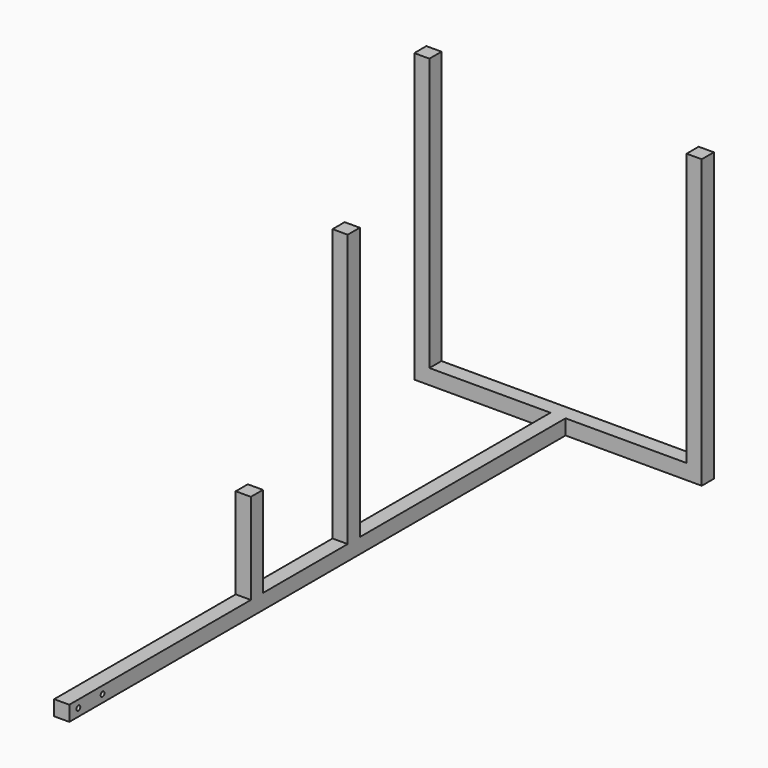
from build123d import *

# Parameters (mm, degrees)
F0_W     = 457.2
F0_H     = 50.8
F1_DEPTH = 50.8
F2_W     = 50.8
F2_H     = 50.8
F3_DEPTH = 914.4
F4_W     = 50.8
F4_H     = 50.8
F5_DEPTH = 914.4
F6_W     = 50.8
F6_H     = 50.8
F7_DEPTH = 304.8
F8_R     = 7.9375
F9_DEPTH = 50.8


with BuildPart() as f1:
    # F0 (on Top) → F1 (new body)
    with BuildSketch(Plane.XY):
        Polygon((0, 2082.8), (0, 2133.6), (-50.8, 2133.6), (-50.8, 2082.8), (-50.8, 0), (0, 0), align=None)
        with Locations((228.6, 2108.2)):
            Rectangle(F0_W, F0_H)
        with Locations((-279.4, 2108.2)):
            Rectangle(F0_W, F0_H)
    extrude(amount=F1_DEPTH)

    # F2 (on face) → F3 (join)
    with BuildSketch(Plane.XY.offset(50.8)):
        with Locations((-482.6, 2108.2)):
            Rectangle(F2_W, F2_H)
        with Locations((431.8, 2108.2)):
            Rectangle(F2_W, F2_H)
    extrude(amount=F3_DEPTH)

    # F4 (on face) → F5 (join)
    with BuildSketch(Plane.XY.offset(50.8)):
        with Locations((-25.4, 1193.8)):
            Rectangle(F4_W, F4_H)
    extrude(amount=F5_DEPTH)

    # F6 (on face) → F7 (join)
    with BuildSketch(Plane.XY.offset(50.8)):
        with Locations((-25.4, 787.4)):
            Rectangle(F6_W, F6_H)
    extrude(amount=F7_DEPTH)

    # F8 (on face) → F9 (cut)
    with BuildSketch(Plane(origin=(-50.8, 0, 0), x_dir=(0, -1, 0), z_dir=(-1, 0, 0))):
        with Locations((-139.7, 25.4)):
            Circle(F8_R)
        with Locations((-38.1, 25.4)):
            Circle(F8_R)
    extrude(amount=-F9_DEPTH, mode=Mode.SUBTRACT)


solid = f1.part
